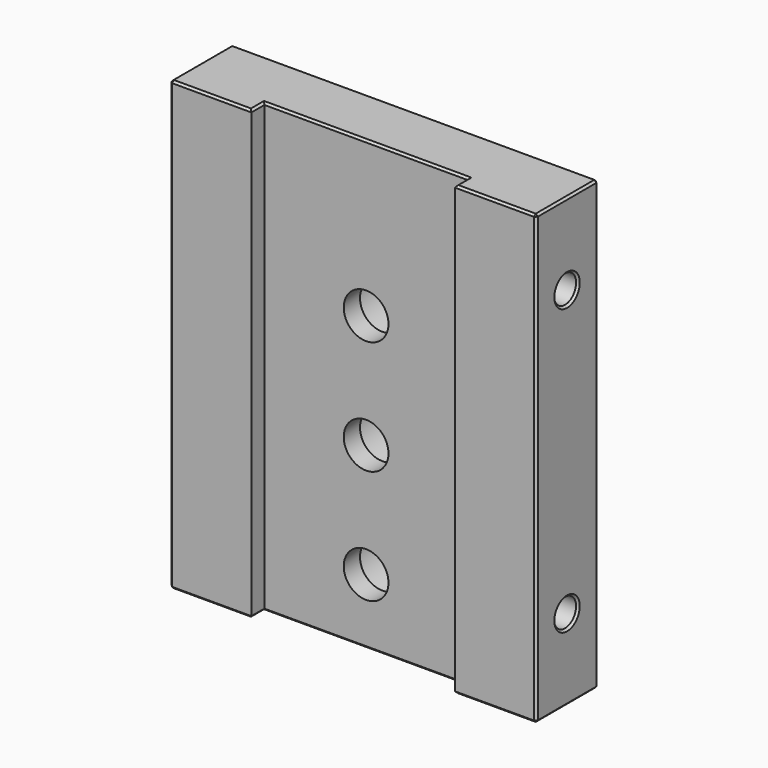
from build123d import *

# Parameters (mm, degrees)
F0_W           = 90
F0_H           = 110
F1_DEPTH       = 19
F2_W           = 50
F2_H           = 110
F3_DEPTH       = 4
F5_D           = 11
F5_CBORE_D     = 17.25
F5_CBORE_DEPTH = 10
F8_D           = 6.8
F8_DEPTH       = 23.75
F8_TIP         = 2.0429261047
F8_ON_F7_D     = 6.8
F8_ON_F7_DEPTH = 23.75
F8_ON_F7_TIP   = 2.0429261047
F9_SIZE        = 0.5


with BuildPart() as f1:
    # F0 (on Front) → F1 (new body)
    with BuildSketch(Plane.XZ):
        with Locations((-45, 55)):
            Rectangle(F0_W, F0_H)
    extrude(amount=F1_DEPTH)

    # F2 (on face) → F3 (cut)
    with BuildSketch(Plane.XZ.offset(19)):
        with Locations((-45, 55)):
            Rectangle(F2_W, F2_H)
    extrude(amount=-F3_DEPTH, mode=Mode.SUBTRACT)

    # F5 (through all)
    with Locations(Plane(origin=(0, 0, 0), x_dir=(-1, 0, 0), z_dir=(0, 1, 0))):
        with Locations((45, 72), (45, 44), (45, 16)):
            CounterBoreHole(F5_D / 2, F5_CBORE_D / 2, F5_CBORE_DEPTH)

    # F8
    with Locations(Plane.YZ):
        with Locations((-9.5, 90), (-9.5, 20)):
            Hole(F8_D / 2, depth=F8_DEPTH)
            with Locations((0, 0, -(F8_DEPTH + F8_TIP / 2))):  # 118° drill point
                Cone(0, F8_D / 2, F8_TIP, mode=Mode.SUBTRACT)

    # F8 on F7
    with Locations(Plane(origin=(-90, 0, 0), x_dir=(0, -1, 0), z_dir=(-1, 0, 0))):
        with Locations((9.5, 90), (9.5, 20)):
            Hole(F8_ON_F7_D / 2, depth=F8_ON_F7_DEPTH)
            with Locations((0, 0, -(F8_ON_F7_DEPTH + F8_ON_F7_TIP / 2))):  # 118° drill point
                Cone(0, F8_ON_F7_D / 2, F8_ON_F7_TIP, mode=Mode.SUBTRACT)

    # F9
    f9_edges = [f1.edges().sort_by_distance(p)[0] for p in [
        (-45, 0, 110),
        (-90, -9.5, 110),
        (-80, -19, 110),
        (-70, -17, 110),
        (-45, -15, 110),
        (-20, -17, 110),
        (-10, -19, 110),
        (0, -9.5, 110),
        (-45, 0, 0),
        (0, -9.5, 0),
        (-10, -19, 0),
        (-20, -17, 0),
        (-45, -15, 0),
        (-70, -17, 0),
        (-80, -19, 0),
        (-90, -9.5, 0),
        (0, 0, 55),
        (0, -19, 55),
        (0, -12.9, 20),
        (0, -12.9, 90),
        (-90, 0, 55),
        (-90, -19, 55),
        (-90, -6.1, 90),
        (-90, -6.1, 20),
        (-36.375, 0, 16),
        (-36.375, 0, 44),
        (-36.375, 0, 72),
    ]]
    chamfer(f9_edges, length=F9_SIZE)


solid = f1.part
